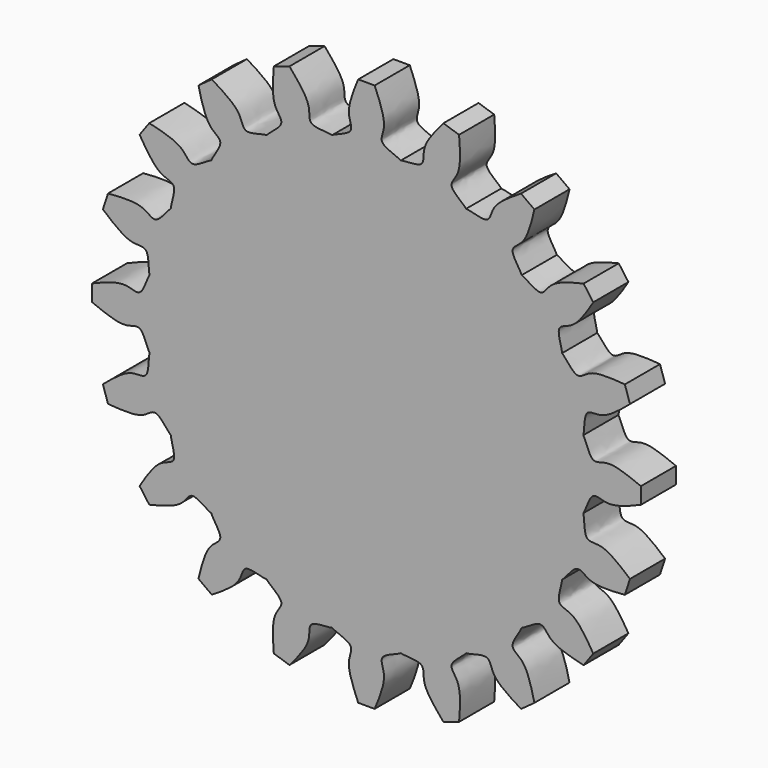
from build123d import *

# Parameters (mm, degrees)
F0_R     = 10
F1_DEPTH = 2
F3_DEPTH = 2
F5_COUNT = 20


with BuildPart() as f1:
    # F0 (on Front) → F1 (new body)
    with BuildSketch(Plane.XZ):
        Circle(F0_R)
    extrude(amount=F1_DEPTH)



with BuildPart() as f3:
    # F2 (on Front) → F3 (new body)
    with BuildSketch(Plane.XZ):
        with BuildLine():
            ThreePointArc((1.5643446504, -9.876883406), (0, -10), (-1.5643446504, -9.876883406))
            add(Edge.make_bspline(
                [(-1.5643446504, -9.876883406), (-1.3482088209, -10.0179007419), (-0.4598869792, -10.2192351032), (-0.982159307, -11.0197913813), (-0.6143502542, -11.9196688756), (-0.375, -12.5)],
                knots=[0, 0, 0, 0, 0.3201040428, 0.582006504, 1, 1, 1, 1], degree=3))
            Line((-0.375, -12.5), (0.375, -12.5))
            add(Edge.make_bspline(
                [(1.5643446504, -9.876883406), (1.3482088209, -10.0179007419), (0.4598869792, -10.2192351032), (0.982159307, -11.0197913813), (0.6143502542, -11.9196688756), (0.375, -12.5)],
                knots=[0, 0, 0, 0, 0.3201040428, 0.582006504, 1, 1, 1, 1], degree=3))
        make_face()
    extrude(amount=F3_DEPTH)


with BuildPart() as f1_1:
    add(f1.part)

    add(f3.part)  # F5 merges F3
    # F5: F3 ×20 about axis
    f5_axis = Axis((0, -5.7404395193, 0), (0, -1, 0))
    for i in range(1, F5_COUNT):
        add(f3.part.rotate(f5_axis, i * 360 / F5_COUNT))


solid = f1_1.part
